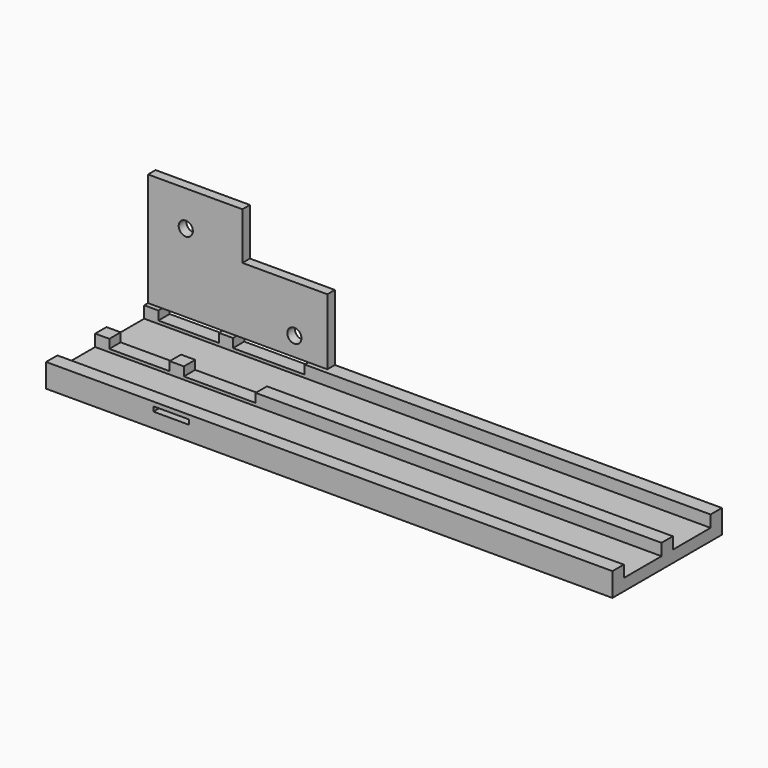
from build123d import *

# Parameters (mm, degrees)
F0_W      = 120
F0_H      = 29
F1_DEPTH  = 5
F2_W      = 120
F2_H      = 10
F3_DEPTH  = 2.5
F5_DEPTH  = 2
F6_R      = 1.5
F7_DEPTH  = 25
F8_W      = 15.2
F8_H      = 1.875
F8_W_2    = 12.8
F9_DEPTH  = 18
F10_W     = 7.5
F10_H     = 1
F11_DEPTH = 3.001


with BuildPart() as f1:
    # F0 (on Top) → F1 (new body)
    with BuildSketch(Plane.XY):
        with Locations((-5.830355, 0.973214)):
            Rectangle(F0_W, F0_H)
    extrude(amount=F1_DEPTH)

    # F2 (on face) → F3 (cut)
    with BuildSketch(Plane.XY.offset(5)):
        with Locations((-5.830355, 7.473214)):
            Rectangle(F2_W, F2_H)
        with Locations((-5.830355, -5.526786)):
            Rectangle(F2_W, F2_H)
    extrude(amount=-F3_DEPTH, mode=Mode.SUBTRACT)

    # F4 (on face) → F5 (join)
    with BuildSketch(Plane(origin=(0, 15.473214, 0), x_dir=(-1, 0, 0), z_dir=(0, 1, 0))):
        Polygon((45.830355, 5), (65.830355, 5), (65.830355, 29), (45.830355, 29), (45.830355, 19), (27.830355, 19), (27.830355, 5), align=None)
    extrude(amount=-F5_DEPTH)

    # F6 (on face) → F7 (cut)
    with BuildSketch(Plane(origin=(0, 15.473214, 0), x_dir=(-1, 0, 0), z_dir=(0, 1, 0))):
        with Locations((57.830355, 21.5)):
            Circle(F6_R)
        with Locations((34.830355, 9)):
            Circle(F6_R)
    extrude(amount=-F7_DEPTH, mode=Mode.SUBTRACT)

    # F8 (on face) → F9 (cut)
    with BuildSketch(Plane(origin=(0, 15.473214, 0), x_dir=(-1, 0, 0), z_dir=(0, 1, 0))):
        with Locations((39.430355, 4.0625)):
            Rectangle(F8_W, F8_H)
        with Locations((56.430355, 4.0625)):
            Rectangle(F8_W_2, F8_H)
    extrude(amount=-F9_DEPTH, mode=Mode.SUBTRACT)

    # F10 (on face) → F11 (cut, through all)
    with BuildSketch(Plane(origin=(0, -10.526786, 0), x_dir=(-1, 0, 0), z_dir=(0, 1, 0))):
        with Locations((39.330355, 3.625)):
            Rectangle(F10_W, F10_H)
    extrude(amount=-F11_DEPTH, mode=Mode.SUBTRACT)


solid = f1.part
